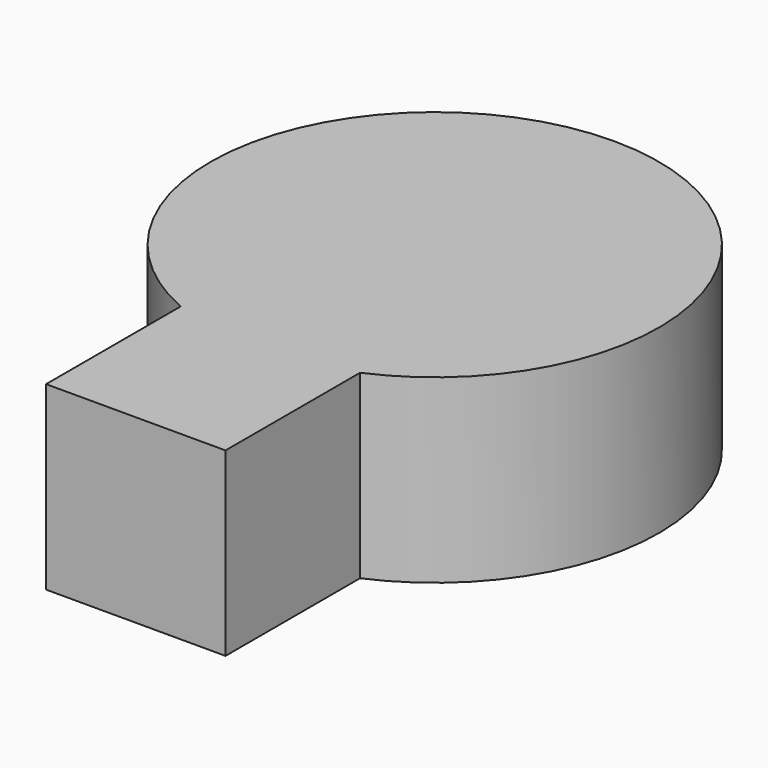
from build123d import *

# Parameters (mm, degrees)
F1_DEPTH = 12.1


with BuildPart() as f1:
    # F0 (on Top) → F1 (new body)
    with BuildSketch(Plane.XY):
        with BuildLine():
            Line((6, -24.9936), (6, -13.747727))
            ThreePointArc((6, -13.747727), (0, 15), (-6, -13.747727))
            Line((-6, -13.747727), (-6, -24.9936))
            Line((-6, -24.9936), (0, -24.9936))
            Line((0, -24.9936), (6, -24.9936))
        make_face()
    extrude(amount=F1_DEPTH)


solid = f1.part
